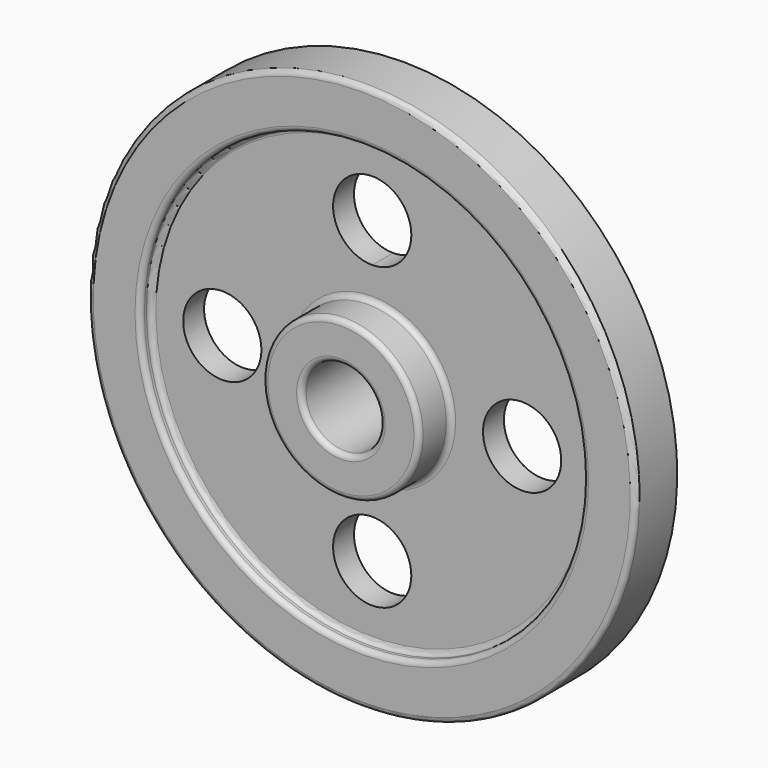
from build123d import *

# Parameters (mm, degrees)
F2_R     = 19.05
F3_DEPTH = 25.4
F4_R     = 2.54
F5_SIZE  = 1.5875


with BuildPart() as f1:
    # F0 (on Right) → F1 (revolve)
    with BuildSketch(Plane.YZ):
        Polygon((-25.4, 19.05), (0, 19.05), (25.4, 19.05), (25.4, 38.1), (6.35, 38.1), (6.35, 107.95), (12.7, 107.95), (12.7, 133.35), (0, 133.35), (-12.7, 133.35), (-12.7, 107.95), (-6.35, 107.95), (-6.35, 38.1), (-25.4, 38.1), align=None)
    revolve(axis=Axis((0, 65.098614, 0), (0, 1, 0)))

    # F2 (on face) → F3 (cut)
    with BuildSketch(Plane.XZ.offset(6.35)):
        with Locations((-73.025, 0)):
            Circle(F2_R)
        with BuildLine():
            ThreePointArc((19.05, 73.025), (-13.470384, 86.495384), (0, 53.975))
            ThreePointArc((0, 53.975), (13.470384, 59.554616), (19.05, 73.025))
        make_face()
        with Locations((73.025, 0)):
            Circle(F2_R)
        with Locations((0, -73.025)):
            Circle(F2_R)
    extrude(amount=-F3_DEPTH, mode=Mode.SUBTRACT)

    # F4
    f4_edges = [f1.edges().sort_by_distance(p)[0] for p in [
        (0, -6.35, -38.1),
        (0, -12.7, -107.95),
        (0, -6.35, -107.95),
        (0, -9.525, 107.95),
        (0, -12.7, -133.35),
        (0, -25.4, -38.1),
        (0, -25.4, -19.05),
    ]]
    fillet(f4_edges, radius=F4_R)

    # F5
    f5_edges = [f1.edges().sort_by_distance(p)[0] for p in [
        (0, 1.27, 19.05),
        (0, -22.86, -19.05),
        (0, 25.4, -19.05),
    ]]
    chamfer(f5_edges, length=F5_SIZE)


solid = f1.part
